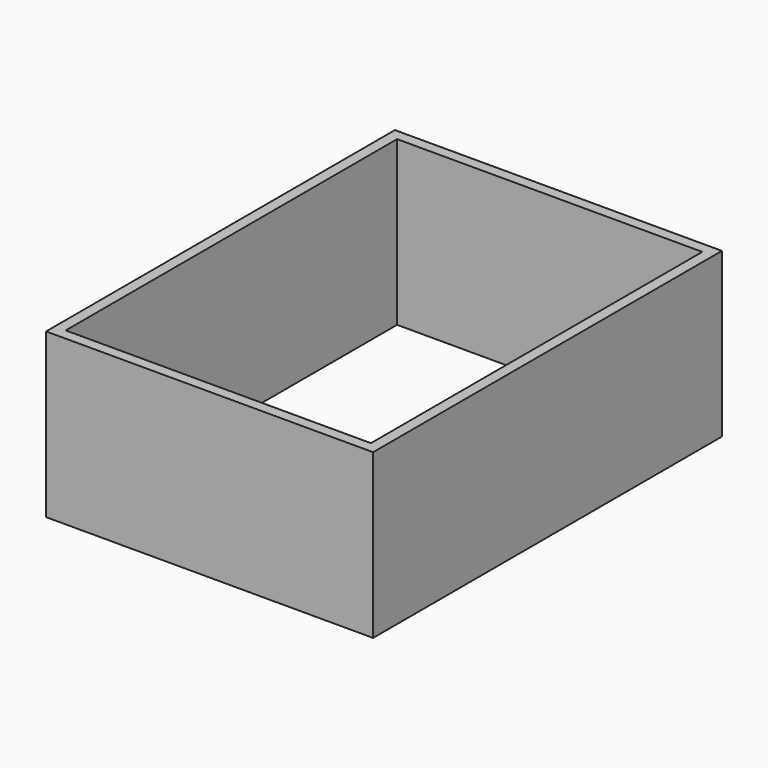
from build123d import *

# Parameters (mm, degrees)
SKETCH001_W   = 60
SKETCH001_H   = 80
SKETCH001_W_2 = 56
SKETCH001_H_2 = 76
PAD_DEPTH     = 30


with BuildPart() as part:
    # Sketch001 → Pad (new body)
    with BuildSketch(Plane.XY.offset(2)):
        Rectangle(SKETCH001_W, SKETCH001_H)
        Rectangle(SKETCH001_W_2, SKETCH001_H_2, mode=Mode.SUBTRACT)
    extrude(amount=PAD_DEPTH)


solid = part.part
